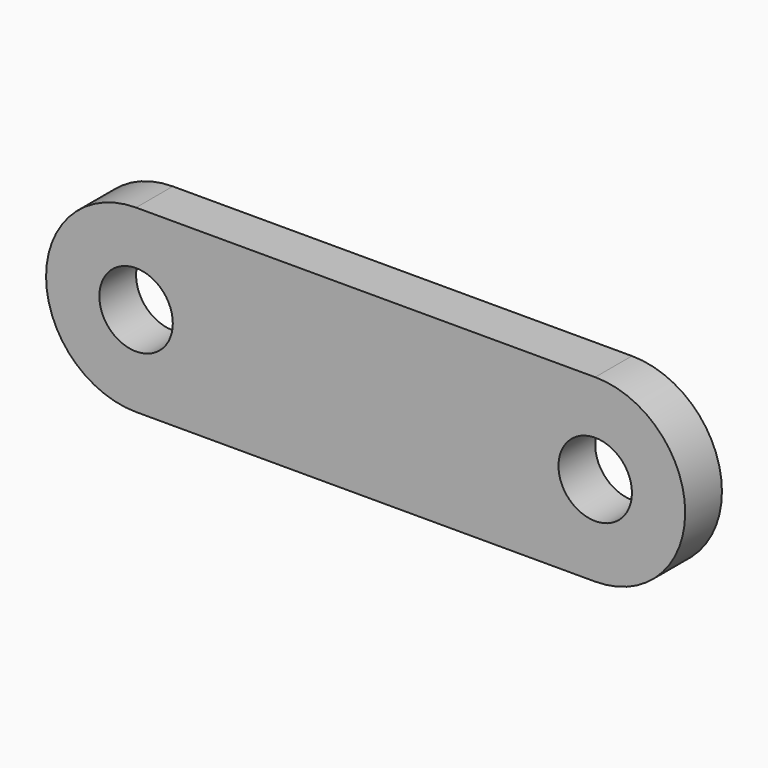
from build123d import *

# Parameters (mm, degrees)
F0_R     = 4
F1_DEPTH = 2.5


with BuildPart() as f1:
    # F0 (on Front) → F1 (new body, symmetric)
    with BuildSketch(Plane.XZ):
        with BuildLine():
            Line((25, 9.8), (0, 9.8))
            Line((0, 9.8), (-25, 9.8))
            ThreePointArc((-25, 9.8), (-34.8, 0), (-25, -9.8))
            Line((-25, -9.8), (0, -9.8))
            Line((0, -9.8), (25, -9.8))
            ThreePointArc((25, -9.8), (34.8, 0), (25, 9.8))
        make_face()
        with Locations((-25, 0)):
            Circle(F0_R, mode=Mode.SUBTRACT)
        with Locations((25, 0)):
            Circle(F0_R, mode=Mode.SUBTRACT)
    extrude(amount=F1_DEPTH, both=True)


solid = f1.part
